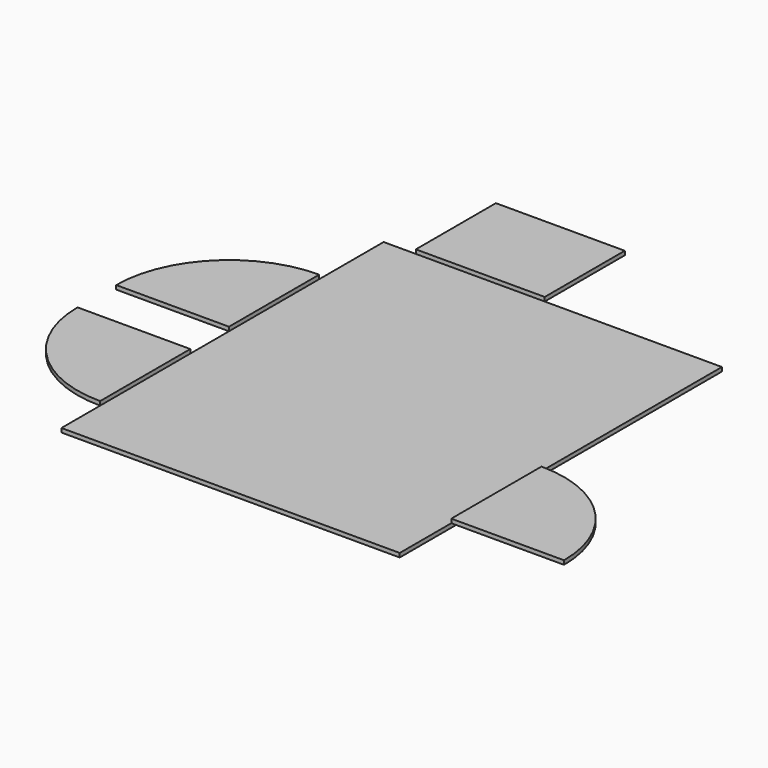
from build123d import *

# Parameters (mm, degrees)
F1_DEPTH = 25
F2_W     = 800
F2_H     = 621.0572361946
F3_DEPTH = 25


with BuildPart() as f1:
    # F0 (on Top) → F1 (new body)
    with BuildSketch(Plane.XY):
        with BuildLine():
            Line((2000, -2500), (2100, -2500))
            Line((2100, -2500), (2100, -2100))
            Line((2100, -2100), (2100, -1400))
            Line((2100, -1400), (2100, 0))
            Line((2100, 0), (1000, 0))
            Line((1000, 0), (200, 0))
            Line((200, 0), (0, 0))
            Line((0, 0), (0, -500))
            Line((0, -500), (0, -1200))
            Line((0, -1200), (0, -1500))
            Line((0, -1500), (0, -2200))
            Line((0, -2200), (0, -2500))
            Line((0, -2500), (100, -2500))
            Line((100, -2500), (100, -2050))
            ThreePointArc((100, -2050), (418.1980515339, -2181.8019484661), (550, -2500))
            ThreePointArc((550, -2500), (681.8019484661, -2181.8019484661), (1000, -2050))
            Line((1000, -2050), (1000, -2500))
            Line((1000, -2500), (1100, -2500))
            Line((1100, -2500), (1100, -2050))
            ThreePointArc((1100, -2050), (1418.1980515339, -2181.8019484661), (1550, -2500))
            ThreePointArc((1550, -2500), (1681.8019484661, -2181.8019484661), (2000, -2050))
            Line((2000, -2050), (2000, -2500))
        make_face()
        with BuildLine():
            Line((100, -2500), (550, -2500))
            ThreePointArc((550, -2500), (418.1980515339, -2181.8019484661), (100, -2050))
            Line((100, -2050), (100, -2500))
        make_face()
        with BuildLine():
            Line((550, -2500), (1000, -2500))
            Line((1000, -2500), (1000, -2050))
            ThreePointArc((1000, -2050), (681.8019484661, -2181.8019484661), (550, -2500))
        make_face()
        with BuildLine():
            Line((1100, -2500), (1550, -2500))
            ThreePointArc((1550, -2500), (1418.1980515339, -2181.8019484661), (1100, -2050))
            Line((1100, -2050), (1100, -2500))
        make_face()
        with BuildLine():
            Line((1550, -2500), (2000, -2500))
            Line((2000, -2500), (2000, -2050))
            ThreePointArc((2000, -2050), (1681.8019484661, -2181.8019484661), (1550, -2500))
        make_face()
    extrude(amount=F1_DEPTH)

    # F2 (on face) → F3 (join)
    with BuildSketch(Plane.XY.offset(25)):
        with BuildLine():
            Line((0, -2200), (0, -1500))
            Line((0, -1500), (-700, -1500))
            ThreePointArc((-700, -1500), (-494.9747468306, -1994.9747468306), (0, -2200))
        make_face()
        with BuildLine():
            Line((0, -1200), (0, -500))
            ThreePointArc((0, -500), (-494.9747468306, -705.0252531694), (-700, -1200))
            Line((-700, -1200), (0, -1200))
        make_face()
        with Locations((600, 310.5286180973)):
            Rectangle(F2_W, F2_H)
        with BuildLine():
            ThreePointArc((2800, -2100), (2594.9747468306, -1605.0252531694), (2100, -1400))
            Line((2100, -1400), (2100, -2100))
            Line((2100, -2100), (2800, -2100))
        make_face()
    extrude(amount=F3_DEPTH)


solid = f1.part
